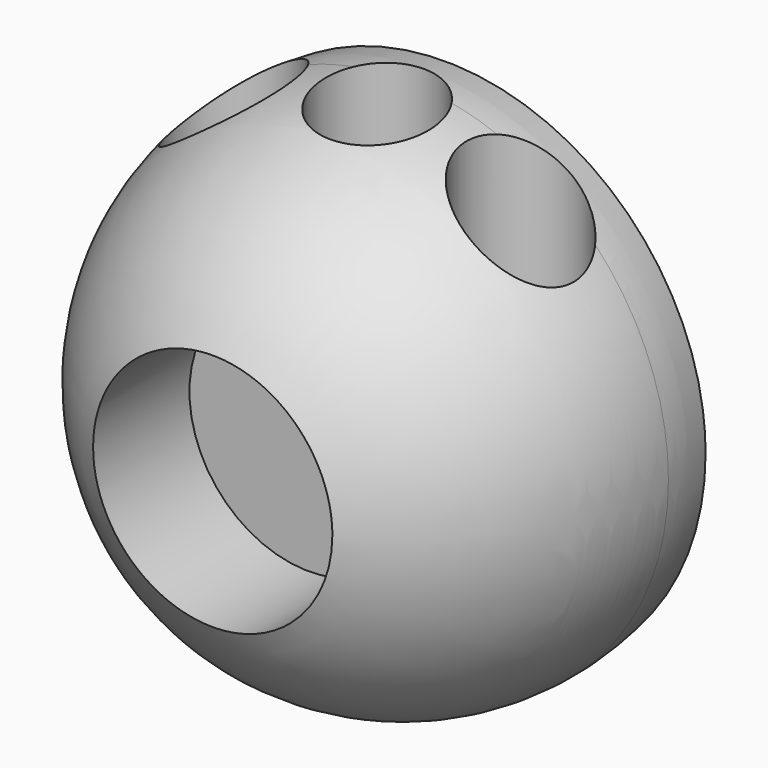
from build123d import *

# Parameters (mm, degrees)
F3_W      = 262.908466
F3_H      = 206.398711
F4_DEPTH  = 25.4
F6_R      = 6.985
F7_DEPTH  = 44.45
F9_R      = 14.2875
F10_DEPTH = 17.78


with BuildPart() as f1:
    # F0 (on Top) → F1 (revolve)
    with BuildSketch(Plane.XY):
        with BuildLine():
            ThreePointArc((0, -31.75), (22.45064, -22.45064), (31.75, 0))
            ThreePointArc((31.75, 0), (22.45064, 22.45064), (0, 31.75))
            Line((0, 31.75), (0, -31.75))
        make_face()
    revolve(axis=Axis((0, 0, 0), (0, -1, 0)))

    # F3 (on offset) → F4 (cut)
    with BuildSketch(Plane.XZ.offset(-6.35)):
        with Locations((11.150669, 15.533521)):
            Rectangle(F3_W, F3_H)
    extrude(amount=-F4_DEPTH, mode=Mode.SUBTRACT)

    # F6 (on offset) → F7 (cut)
    with BuildSketch(Plane.XY.offset(31.75)):
        with Locations((0, -3.81)):
            Circle(F6_R)
        with Locations((-17.145, -3.81)):
            Circle(F6_R)
        with Locations((17.145, -3.81)):
            Circle(F6_R)
    extrude(amount=-F7_DEPTH, mode=Mode.SUBTRACT)

    # F9 (on offset) → F10 (cut)
    with BuildSketch(Plane.XZ.offset(31.75)):
        Circle(F9_R)
    extrude(amount=-F10_DEPTH, mode=Mode.SUBTRACT)


solid = f1.part
